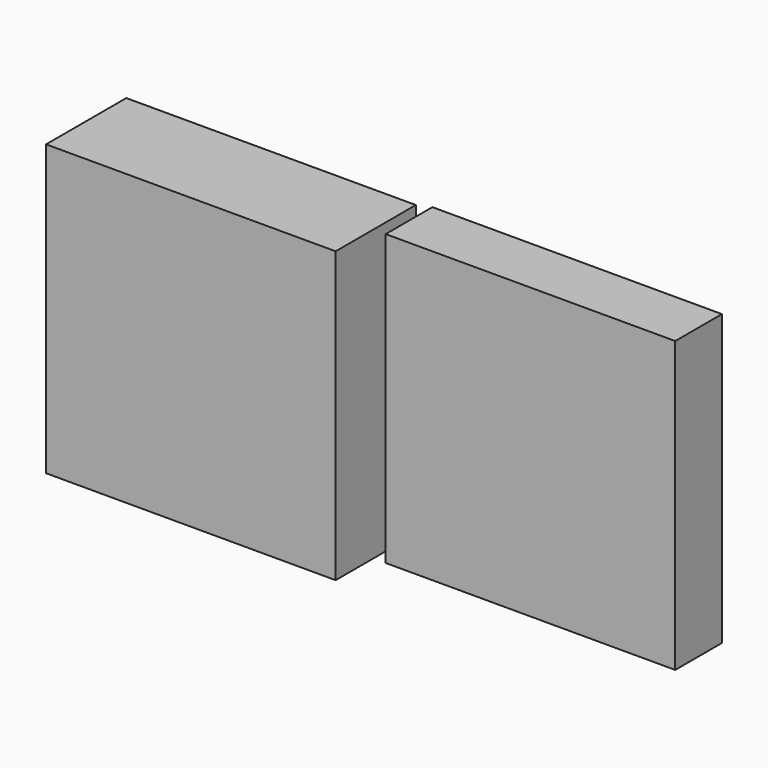
from build123d import *

# Parameters (mm, degrees)
F0_W     = 330.2
F0_H     = 330.2
F1_DEPTH = 114.3
F2_W     = 330.2
F2_H     = 330.2
F3_DEPTH = 66.548


with BuildPart() as f1:
    # F0 (on Front) → F1 (new body)
    with BuildSketch(Plane.XZ):
        Rectangle(F0_W, F0_H)
    extrude(amount=F1_DEPTH)


with BuildPart() as f3:
    # F2 (on Front) → F3 (new body)
    with BuildSketch(Plane.XZ):
        with Locations((349.057712, 4.009686)):
            Rectangle(F2_W, F2_H)
    extrude(amount=F3_DEPTH)


solid = Compound([f1.part, f3.part])
